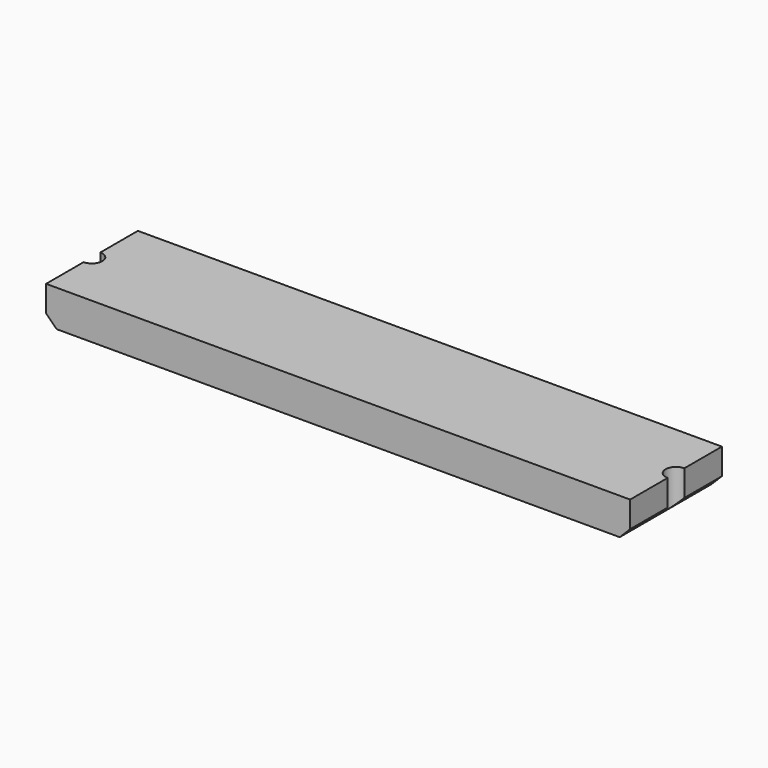
from build123d import *

# Parameters (mm, degrees)
F0_W     = 711.2
F0_H     = 139.7
F1_DEPTH = 44.45
F2_SIZE  = 12.7
F4_DEPTH = 44.45


with BuildPart() as f1:
    # F0 (on Top) → F1 (new body)
    with BuildSketch(Plane.XY):
        with Locations((355.6, 69.85)):
            Rectangle(F0_W, F0_H)
    extrude(amount=F1_DEPTH)

    # F2
    f2_edges = [f1.edges().sort_by_distance(p)[0] for p in [
        (0, 69.85, 0),
        (711.2, 69.85, 0),
    ]]
    chamfer(f2_edges, length=F2_SIZE)

    # F3 (on face) → F4 (cut)
    with BuildSketch(Plane.XY.offset(44.45)):
        with BuildLine():
            Line((0, 82.55), (0, 57.15))
            ThreePointArc((0, 57.15), (12.7, 69.85), (0, 82.55))
        make_face()
        with BuildLine():
            ThreePointArc((711.2, 82.55), (698.5, 69.85), (711.2, 57.15))
            Line((711.2, 57.15), (711.2, 82.55))
        make_face()
    extrude(amount=-F4_DEPTH, mode=Mode.SUBTRACT)


solid = f1.part
